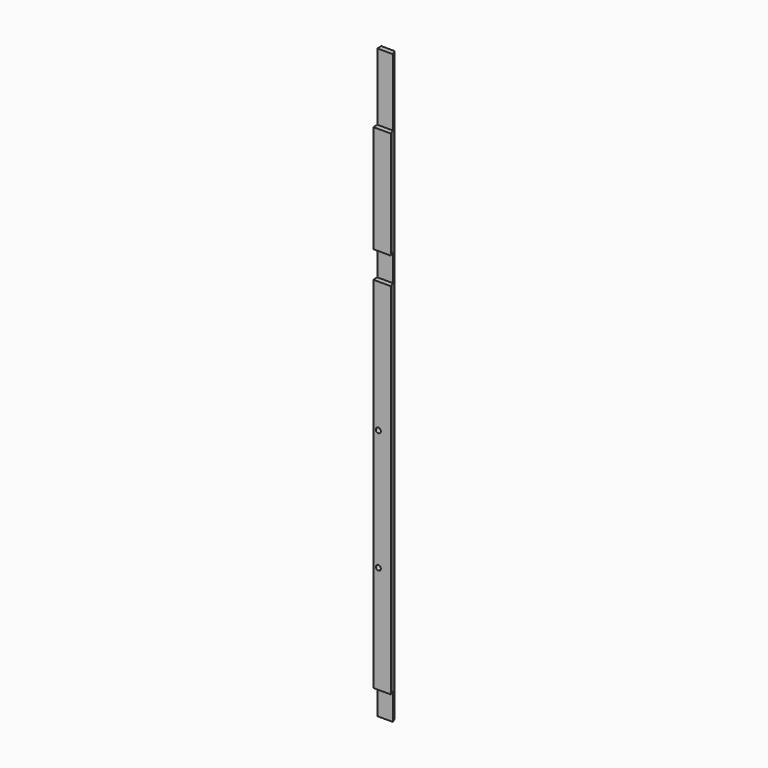
from build123d import *

# Parameters (mm, degrees)
F1_DEPTH = 1111.25
F2_W     = 122.435573
F2_H     = 50.8
F2_W_2   = 93.867282
F2_W_3   = 343.160421
F2_H_2   = 127
F3_DEPTH = 25.4
F4_R     = 0.79375
F5_DEPTH = 25.4
F6_R     = 4.7625
F7_DEPTH = 25.4


with BuildPart() as f1:
    # F0 (on Top) → F1 (new body)
    with BuildSketch(Plane.XY):
        Polygon((7.890768, -9.525), (0, 9.525), (-25.4, 9.525), (-25.4, -9.525), align=None)
    extrude(amount=F1_DEPTH)

    # F2 (on Front) → F3 (cut)
    with BuildSketch(Plane.XZ):
        with Locations((22.446524, 25.4)):
            Rectangle(F2_W, F2_H)
        with Locations((2.720783, 755.65)):
            Rectangle(F2_W_2, F2_H)
        with Locations((-38.781822, 1047.75)):
            Rectangle(F2_W_3, F2_H_2)
    extrude(amount=F3_DEPTH, mode=Mode.SUBTRACT)

    # F4 (on Front) → F5 (cut)
    with BuildSketch(Plane.XZ):
        with Locations((12.7, 101.6)):
            Circle(F4_R)
        with Locations((12.7, 155.575)):
            Circle(F4_R)
        with Locations((12.7, 625.475)):
            Circle(F4_R)
        with Locations((12.7, 679.45)):
            Circle(F4_R)
        with Locations((-12.7, 625.475)):
            Circle(F4_R)
        with Locations((-12.7, 679.45)):
            Circle(F4_R)
        with Locations((-12.7, 101.6)):
            Circle(F4_R)
        with Locations((-12.7, 155.575)):
            Circle(F4_R)
    extrude(amount=-F5_DEPTH, mode=Mode.SUBTRACT)

    # F6 (on Front) → F7 (cut)
    with BuildSketch(Plane.XZ):
        with Locations((-15.875, 254)):
            Circle(F6_R)
        with Locations((-15.875, 482.6)):
            Circle(F6_R)
    extrude(amount=F7_DEPTH, mode=Mode.SUBTRACT)


solid = f1.part
